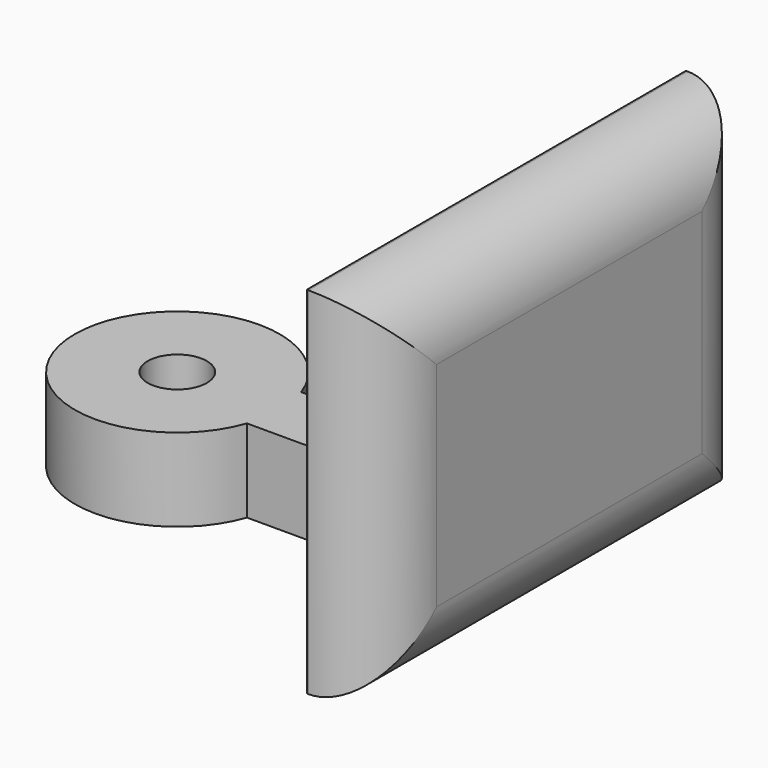
from build123d import *

# Parameters (mm, degrees)
F0_W     = 0.615
F0_H     = 1.1436358327
F0_R     = 0.5
F1_DEPTH = 1.4
F2_DEPTH = 6
F3_R     = 1.2


with BuildPart() as f1:
    # F0 (on Top) → F1 (new body)
    with BuildSketch(Plane.XY):
        with BuildLine():
            Line((-1.6327658346, 0.5718179164), (1.6327658346, 0.5718179164))
            ThreePointArc((1.6327658346, 0.5718179164), (0, 1.73), (-1.6327658346, 0.5718179164))
        make_face()
        with BuildLine():
            ThreePointArc((-1.6327658346, -0.5718179164), (0, -1.73), (1.6327658346, -0.5718179164))
            Line((1.6327658346, -0.5718179164), (-1.6327658346, -0.5718179164))
        make_face()
        with Locations((5.6925, 0)):
            Rectangle(F0_W, F0_H)
        with BuildLine():
            ThreePointArc((1.6327658346, -0.5718179164), (1.7055182341, -0.2900130223), (1.73, 0))
            ThreePointArc((1.73, 0), (1.7055182341, 0.2900130223), (1.6327658346, 0.5718179164))
            Line((1.6327658346, 0.5718179164), (-1.6327658346, 0.5718179164))
            ThreePointArc((-1.6327658346, 0.5718179164), (-1.73, 0), (-1.6327658346, -0.5718179164))
            Line((-1.6327658346, -0.5718179164), (1.6327658346, -0.5718179164))
        make_face()
        Circle(F0_R, mode=Mode.SUBTRACT)
        with BuildLine():
            ThreePointArc((1.6327658346, 0.5718179164), (1.7055182341, 0.2900130223), (1.73, 0))
            ThreePointArc((1.73, 0), (1.7055182341, -0.2900130223), (1.6327658346, -0.5718179164))
            Line((1.6327658346, -0.5718179164), (5.385, -0.5718179164))
            Line((5.385, -0.5718179164), (5.385, 0.5718179164))
            Line((5.385, 0.5718179164), (1.6327658346, 0.5718179164))
        make_face()
    extrude(amount=F1_DEPTH)

    # F0 (on Top) → F2 (join)
    with BuildSketch(Plane.XY):
        Polygon((5.385, 4), (5.385, 0.5718179164), (6, 0.5718179164), (6, -0.5718179164), (5.385, -0.5718179164), (5.385, -4), (6.615, -4), (6.615, 4), align=None)
        with Locations((5.6925, 0)):
            Rectangle(F0_W, F0_H)
    extrude(amount=F2_DEPTH)

    # F3
    f3_edges = [f1.edges().sort_by_distance(p)[0] for p in [
        (6.615, -4, 3),
        (6.615, 4, 3),
        (6.615, 0, 6),
        (6.615, 0, 0),
    ]]
    fillet(f3_edges, radius=F3_R)


solid = f1.part
